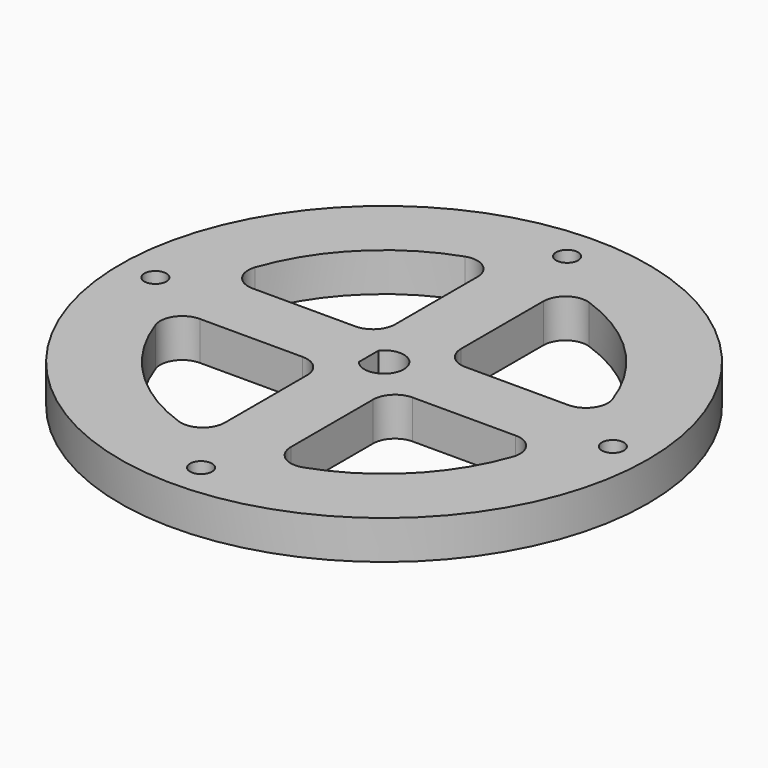
from build123d import *

# Parameters (mm, degrees)
F0_R     = 38.1
F0_R_2   = 1.5875
F1_DEPTH = 5.588
F3_DEPTH = 5.589


with BuildPart() as f1:
    # F0 (on Top) → F1 (new body)
    with BuildSketch(Plane.XY):
        Circle(F0_R)
        with Locations((0, -33.02)):
            Circle(F0_R_2, mode=Mode.SUBTRACT)
        with Locations((-33.02, 0)):
            Circle(F0_R_2, mode=Mode.SUBTRACT)
        with BuildLine():
            ThreePointArc((-2.2225, 1.796051), (2.8575, 0), (-2.2225, -1.796051))
            Line((-2.2225, -1.796051), (-2.2225, 1.796051))
        make_face(mode=Mode.SUBTRACT)
        with Locations((33.02, 0)):
            Circle(F0_R_2, mode=Mode.SUBTRACT)
        with Locations((0, 33.02)):
            Circle(F0_R_2, mode=Mode.SUBTRACT)
    extrude(amount=F1_DEPTH)

    # F2 (on Top) → F3 (cut, through all)
    with BuildSketch(Plane.XY):
        with BuildLine():
            ThreePointArc((4.7625, 7.9375), (5.692436, 5.692436), (7.9375, 4.7625))
            Line((7.9375, 4.7625), (22.787123, 4.7625))
            ThreePointArc((22.787123, 4.7625), (25.375233, 6.098393), (25.785429, 8.981908))
            ThreePointArc((25.785429, 8.981908), (19.307551, 19.307551), (8.981908, 25.785429))
            ThreePointArc((8.981908, 25.785429), (6.098393, 25.375233), (4.7625, 22.787123))
            Line((4.7625, 22.787123), (4.7625, 7.9375))
        make_face()
        with BuildLine():
            ThreePointArc((-4.7625, 22.787123), (-6.098393, 25.375233), (-8.981908, 25.785429))
            ThreePointArc((-8.981908, 25.785429), (-19.307551, 19.307551), (-25.785429, 8.981908))
            ThreePointArc((-25.785429, 8.981908), (-25.375233, 6.098393), (-22.787123, 4.7625))
            Line((-22.787123, 4.7625), (-7.9375, 4.7625))
            ThreePointArc((-7.9375, 4.7625), (-5.692436, 5.692436), (-4.7625, 7.9375))
            Line((-4.7625, 7.9375), (-4.7625, 22.787123))
        make_face()
        with BuildLine():
            ThreePointArc((-8.981908, -25.785429), (-6.098393, -25.375233), (-4.7625, -22.787123))
            Line((-4.7625, -22.787123), (-4.7625, -7.9375))
            ThreePointArc((-4.7625, -7.9375), (-5.692436, -5.692436), (-7.9375, -4.7625))
            Line((-7.9375, -4.7625), (-22.787123, -4.7625))
            ThreePointArc((-22.787123, -4.7625), (-25.375233, -6.098393), (-25.785429, -8.981908))
            ThreePointArc((-25.785429, -8.981908), (-19.307551, -19.307551), (-8.981908, -25.785429))
        make_face()
        with BuildLine():
            ThreePointArc((25.785429, -8.981908), (25.375233, -6.098393), (22.787123, -4.7625))
            Line((22.787123, -4.7625), (7.9375, -4.7625))
            ThreePointArc((7.9375, -4.7625), (5.692436, -5.692436), (4.7625, -7.9375))
            Line((4.7625, -7.9375), (4.7625, -22.787123))
            ThreePointArc((4.7625, -22.787123), (6.098393, -25.375233), (8.981908, -25.785429))
            ThreePointArc((8.981908, -25.785429), (19.307551, -19.307551), (25.785429, -8.981908))
        make_face()
    extrude(amount=F3_DEPTH, mode=Mode.SUBTRACT)


solid = f1.part
